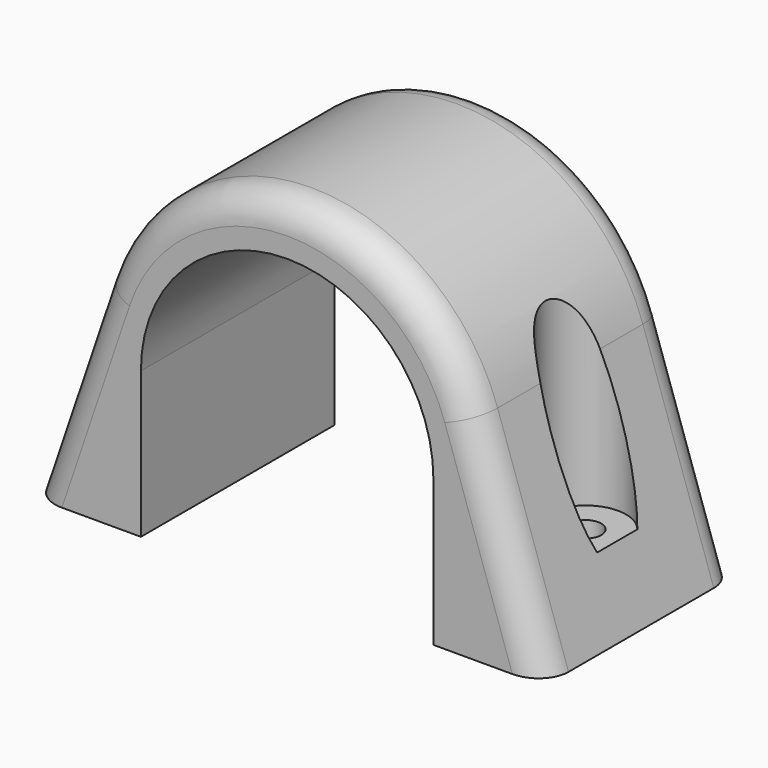
from build123d import *

# Parameters (mm, degrees)
F1_DEPTH = 24
F3_D     = 3.1
F6_D     = 8
F6_DEPTH = 26.9889453037
F7_R     = 3


with BuildPart() as f1:
    # F0 (on Front) → F1 (new body)
    with BuildSketch(Plane.XZ):
        with BuildLine():
            ThreePointArc((-14.5, 14.4879452037), (0, 28.9879452037), (14.5, 14.4879452037))
            Line((14.5, 14.4879452037), (14.5, 0))
            Line((14.5, 0), (25.5, 0))
            Line((25.5, 0), (18.4680759907, 20.7473516612))
            ThreePointArc((18.4680759907, 20.7473516612), (0, 33.9879452037), (-18.4680759907, 20.7473516612))
            Line((-18.4680759907, 20.7473516612), (-25.5, 0))
            Line((-25.5, 0), (-14.5, 0))
            Line((-14.5, 0), (-14.5, 14.4879452037))
        make_face()
    extrude(amount=F1_DEPTH)

    # F3 (through all)
    with Locations(Plane(origin=(0, 0, 0), x_dir=(1, 0, 0), z_dir=(0, 0, -1))):
        with Locations((-20, 12), (20, 12)):
            Hole(F3_D / 2)

    # F6 (through all, one way)
    with BuildSketch(Plane(origin=(0, 0, 7), x_dir=(1, 0, 0), z_dir=(0, 0, -1))):
        with Locations((-20, 12), (20, 12)):
            Circle(F6_D / 2)
    extrude(amount=-F6_DEPTH, mode=Mode.SUBTRACT)

    # F7
    f7_edges = [f1.edges().sort_by_distance(p)[0] for p in [
        (0, 0, 33.987945),
        (0, -24, 33.987945),
    ]]
    fillet(f7_edges, radius=F7_R)


solid = f1.part
